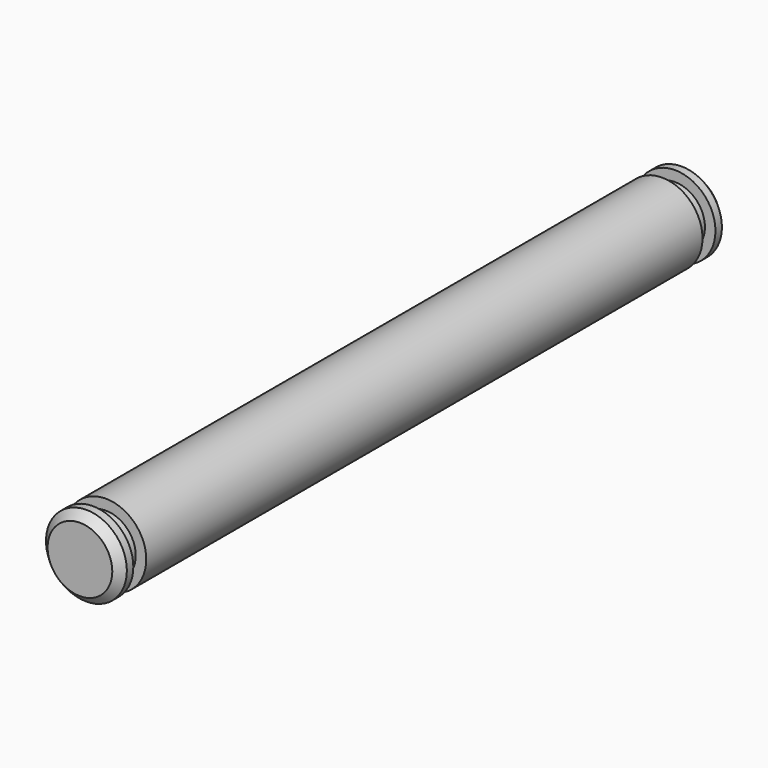
from build123d import *

# Parameters (mm, degrees)
F0_R     = 2.5
F1_DEPTH = 1
F2_R     = 1.85
F3_DEPTH = 1
F4_R     = 2.5
F4_R_2   = 1.85
F5_DEPTH = 43
F6_R     = 1.85
F7_DEPTH = 1
F8_R     = 2.5
F8_R_2   = 1.85
F9_DEPTH = 1
F10_SIZE = 0.5


with BuildPart() as f1:
    # F0 (on Front) → F1 (new body)
    with BuildSketch(Plane.XZ):
        Circle(F0_R)
    extrude(amount=F1_DEPTH)

    # F2 (on face) → F3 (join)
    with BuildSketch(Plane.XZ.offset(1)):
        Circle(F2_R)
    extrude(amount=F3_DEPTH)

    # F4 (on face) → F5 (join)
    with BuildSketch(Plane.XZ.offset(2)):
        Circle(F4_R)
        Circle(F4_R_2, mode=Mode.SUBTRACT)
        Circle(F4_R_2)
    extrude(amount=F5_DEPTH)

    # F6 (on face) → F7 (join)
    with BuildSketch(Plane.XZ.offset(45)):
        Circle(F6_R)
    extrude(amount=F7_DEPTH)

    # F8 (on face) → F9 (join)
    with BuildSketch(Plane.XZ.offset(46)):
        Circle(F8_R)
        Circle(F8_R_2, mode=Mode.SUBTRACT)
        Circle(F8_R_2)
    extrude(amount=F9_DEPTH)

    # F10
    f10_edges = [f1.edges().sort_by_distance(p)[0] for p in [
        (-2.5, -47, 0),
        (-2.5, 0, 0),
    ]]
    chamfer(f10_edges, length=F10_SIZE)


solid = f1.part
